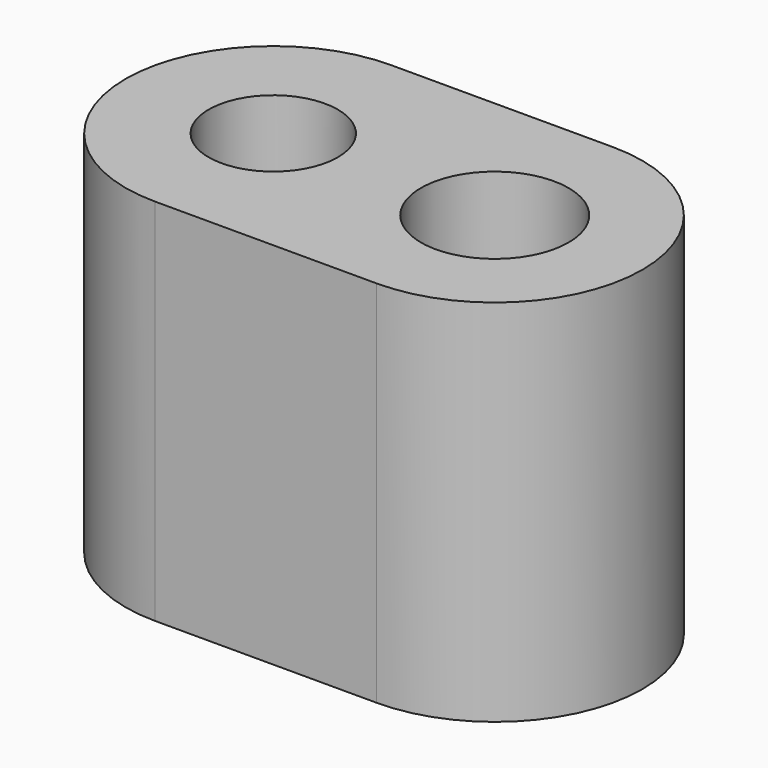
from build123d import *

# Parameters (mm, degrees)
SKETCH_R   = 0.875
SKETCH_R_2 = 1
PAD_DEPTH  = 5


with BuildPart() as part:
    # Sketch → Pad (new body)
    with BuildSketch(Plane.XY):
        with BuildLine():
            ThreePointArc((0, 2), (-2, 0), (0, -2))
            Line((0, -2), (3, -2))
            ThreePointArc((3, -2), (5, 0), (3, 2))
            Line((3, 2), (0, 2))
        make_face()
        Circle(SKETCH_R, mode=Mode.SUBTRACT)
        with Locations((3, 0)):
            Circle(SKETCH_R_2, mode=Mode.SUBTRACT)
    extrude(amount=PAD_DEPTH)


solid = part.part
